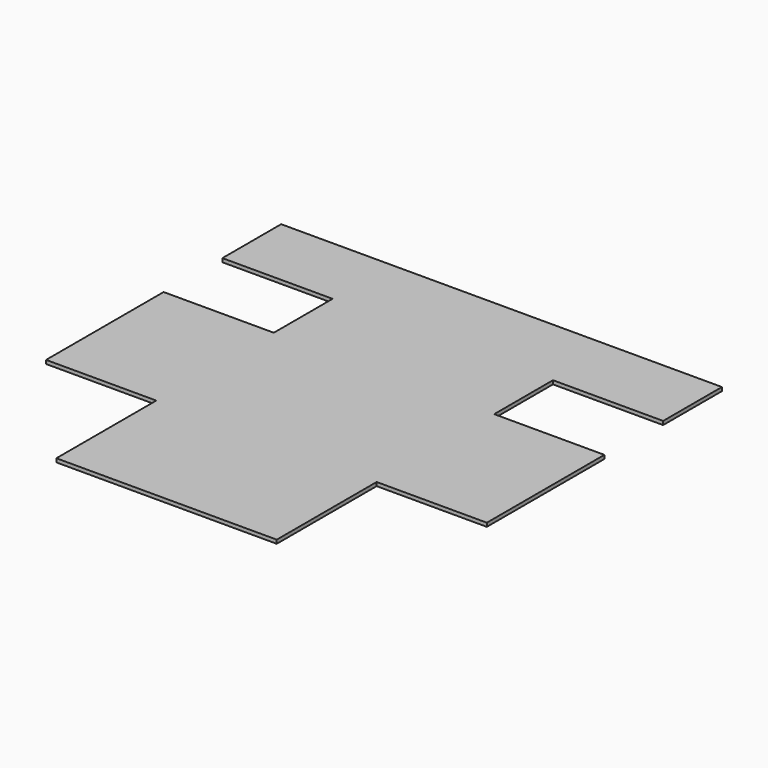
from build123d import *

# Parameters (mm, degrees)
F0_W     = 300
F0_H     = 170
F1_DEPTH = 5


with BuildPart() as f1:
    # F0 (on Top) → F1 (new body)
    with BuildSketch(Plane.XY):
        Polygon((600, 0), (0, 0), (0, -100), (150, -100), (150, -200), (0, -200), (0, -400), (150, -400), (450, -400), (600, -400), (600, -200), (450, -200), (450, -100), (600, -100), align=None)
        with Locations((300, -485)):
            Rectangle(F0_W, F0_H)
    extrude(amount=F1_DEPTH)


solid = f1.part
